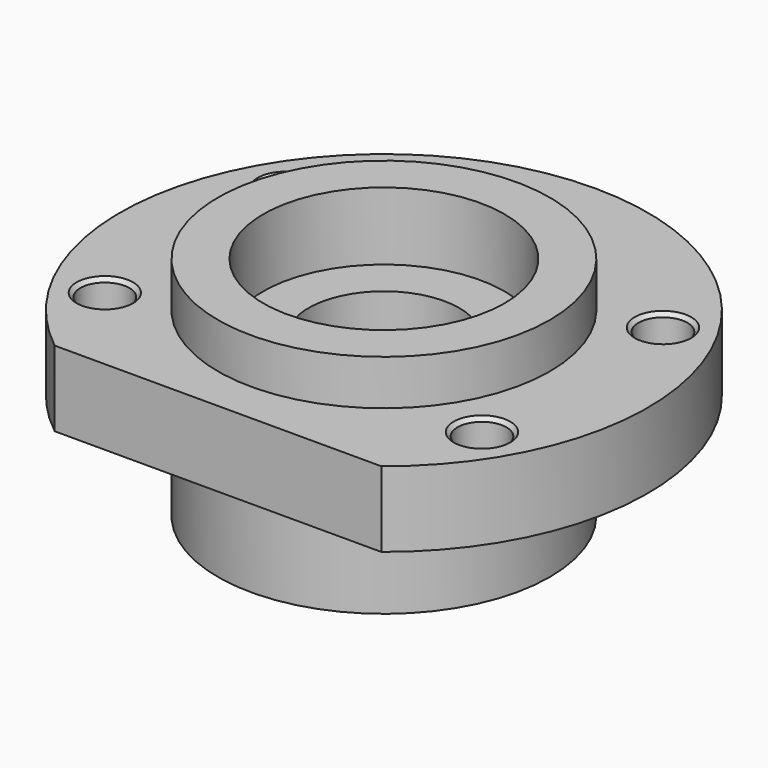
from build123d import *

# Parameters (mm, degrees)
F0_R     = 3.25
F0_R_2   = 10
F1_DEPTH = 10
F2_R     = 22
F2_R_2   = 10
F3_DEPTH = 6
F4_R     = 16
F4_R_2   = 10
F5_DEPTH = 9
F6_R     = 22
F6_R_2   = 10
F7_DEPTH = 14
F8_R     = 16
F8_R_2   = 10
F9_DEPTH = 9
F10_SIZE = 0.5


with BuildPart() as f1:
    # F0 (on Top) → F1 (new body)
    with BuildSketch(Plane.XY):
        with BuildLine():
            Line((-21.6506350946, -27.5), (21.6506350946, -27.5))
            ThreePointArc((21.6506350946, -27.5), (0, 35), (-21.6506350946, -27.5))
        make_face()
        with Locations((-25, -15)):
            Circle(F0_R, mode=Mode.SUBTRACT)
        with Locations((25, -15)):
            Circle(F0_R, mode=Mode.SUBTRACT)
        Circle(F0_R_2, mode=Mode.SUBTRACT)
        with Locations((-25, 15)):
            Circle(F0_R, mode=Mode.SUBTRACT)
        with Locations((25, 15)):
            Circle(F0_R, mode=Mode.SUBTRACT)
    extrude(amount=F1_DEPTH)

    # F2 (on face) → F3 (join)
    with BuildSketch(Plane.XY.offset(10)):
        Circle(F2_R)
        Circle(F2_R_2, mode=Mode.SUBTRACT)
    extrude(amount=F3_DEPTH)

    # F4 (on face) → F5 (cut)
    with BuildSketch(Plane.XY.offset(16)):
        Circle(F4_R)
        Circle(F4_R_2, mode=Mode.SUBTRACT)
    extrude(amount=-F5_DEPTH, mode=Mode.SUBTRACT)

    # F6 (on face) → F7 (join)
    with BuildSketch(Plane(origin=(0, 0, 0), x_dir=(1, 0, 0), z_dir=(0, 0, -1))):
        Circle(F6_R)
        Circle(F6_R_2, mode=Mode.SUBTRACT)
    extrude(amount=F7_DEPTH)

    # F8 (on face) → F9 (cut)
    with BuildSketch(Plane(origin=(0, 0, -14), x_dir=(1, 0, 0), z_dir=(0, 0, -1))):
        Circle(F8_R)
        Circle(F8_R_2, mode=Mode.SUBTRACT)
    extrude(amount=-F9_DEPTH, mode=Mode.SUBTRACT)

    # F10
    f10_edges = [f1.edges().sort_by_distance(p)[0] for p in [
        (-28.25, -15, 10),
        (-28.25, 15, 10),
        (21.75, 15, 10),
        (21.75, -15, 10),
        (21.75, 15, 0),
        (21.75, -15, 0),
        (-28.25, 15, 0),
        (-28.25, -15, 0),
    ]]
    chamfer(f10_edges, length=F10_SIZE)


solid = f1.part
